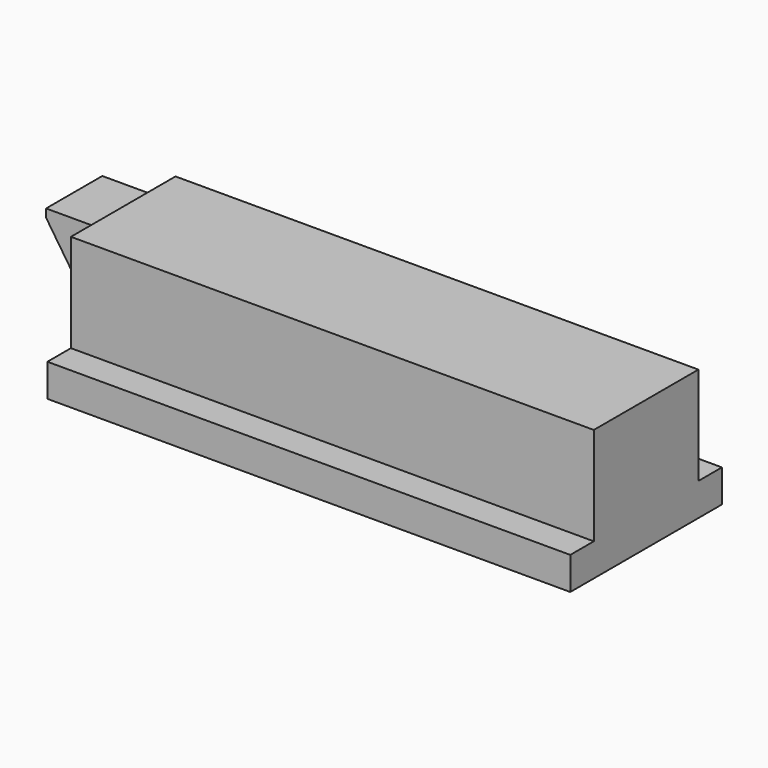
from build123d import *

# Parameters (mm, degrees)
F1_DEPTH = 4
F2_DEPTH = 2.15
F0_W     = 32
F0_H     = 2
F3_DEPTH = 5.8


with BuildPart() as f1:
    # F0 (on Front) → F1 (new body, symmetric)
    with BuildSketch(Plane.XZ):
        Polygon((-13.8378396917, 2.8), (-13.8378396917, 2), (18.1621603083, 2), (18.1621603083, 8), (-13.8378396917, 8), (-13.8378396917, 7.8), align=None)
    extrude(amount=F1_DEPTH, both=True)

    # F0 (on Front) → F2 (join, symmetric)
    with BuildSketch(Plane.XZ):
        Polygon((-16.8378396917, 7.3), (-13.8378396917, 2.8), (-13.8378396917, 7.8), (-16.8378396917, 7.8), align=None)
    extrude(amount=F2_DEPTH, both=True)

    # F0 (on Front) → F3 (join, symmetric)
    with BuildSketch(Plane.XZ):
        with Locations((2.1621603083, 1)):
            Rectangle(F0_W, F0_H)
    extrude(amount=F3_DEPTH, both=True)


solid = f1.part
